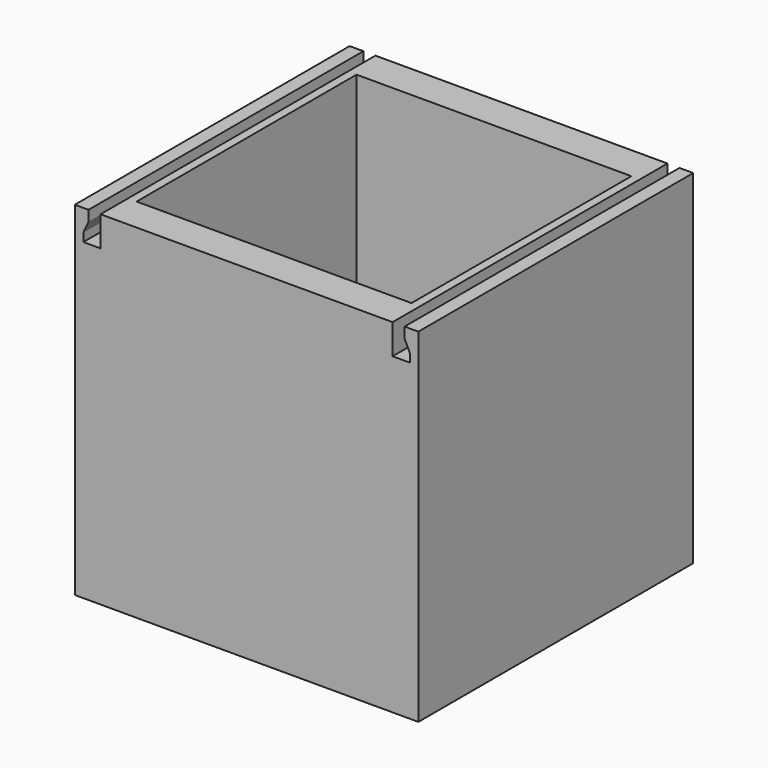
from build123d import *

# Parameters (mm, degrees)
F2_DEPTH = 11.43
F3_DEPTH = 25.4
F4_T     = -2.54
F7_DEPTH = 25.4


with BuildPart() as f2:
    # F1 (on Top) → F2 (new body, symmetric)
    with BuildSketch(Plane.XY):
        Polygon((0, 1.27), (11.43, 1.27), (11.43, 24.13), (-11.43, 24.13), (-11.43, 1.27), align=None)
    extrude(amount=F2_DEPTH, both=True)


with BuildPart() as f3:
    # F0 (on Front) → F3 (new body)
    with BuildSketch(Plane.XZ):
        Polygon((-12.7, -12.7), (12.7, -12.7), (12.7, 12.7), (0, 12.7), (-12.7, 12.7), align=None)
    extrude(amount=-F3_DEPTH)

    # F4
    f4_openings = [f3.faces().sort_by_distance(p)[0] for p in [
        (0, 12.7, 12.7),
    ]]
    offset(amount=F4_T, openings=f4_openings)

    # F6 (on Front) → F7 (cut)
    with BuildSketch(Plane.XZ):
        Polygon((-12.065, 10.4775), (-10.795, 10.4775), (-10.795, 11.1125), (-10.795, 12.7), (-11.684, 12.7), (-11.684, 11.90625), (-12.065, 11.1125), align=None)
        Polygon((10.795, 10.4775), (12.065, 10.4775), (12.065, 11.1125), (11.684, 11.90625), (11.684, 12.7), (10.795, 12.7), (10.795, 11.1125), align=None)
    extrude(amount=-F7_DEPTH, mode=Mode.SUBTRACT)


solid = f3.part
